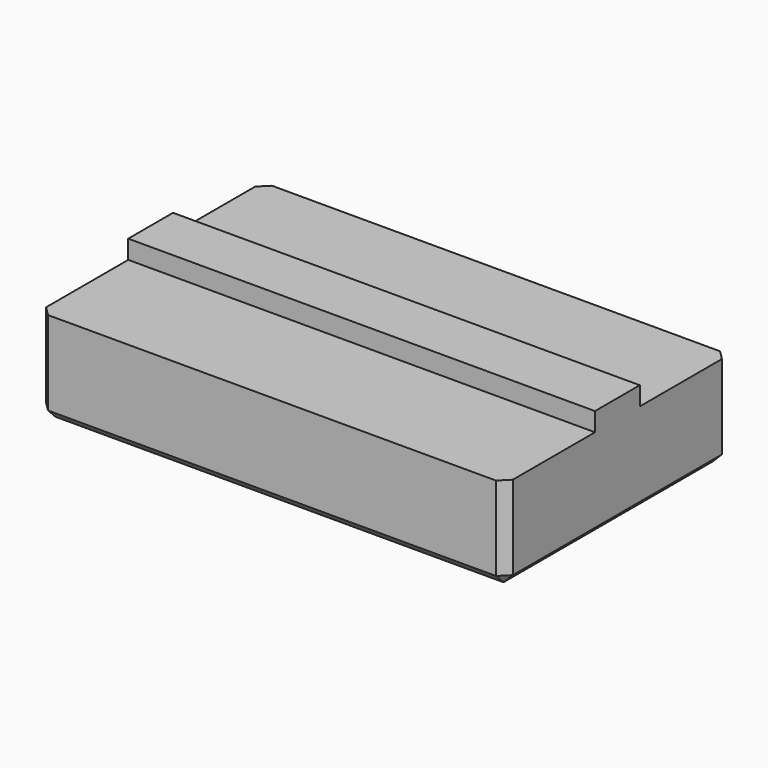
from build123d import *

# Parameters (mm, degrees)
BOX_W        = 50
BOX_H        = 30
BOX_DEPTH    = 10
BOX001_W     = 50
BOX001_H     = 6
BOX001_DEPTH = 12
CHAMFER_SIZE = 1


with BuildPart() as cube:
    # Box → Box (new body)
    with BuildSketch(Plane.XY):
        with Locations((25, 15)):
            Rectangle(BOX_W, BOX_H)
    extrude(amount=BOX_DEPTH)


with BuildPart() as f_50_spacer:
    # Box001 → Box001 (new body)
    with BuildSketch(Plane(origin=(0, 12, 0), x_dir=(1, 0, 0), z_dir=(0, 0, 1))):
        with Locations((25, 3)):
            Rectangle(BOX001_W, BOX001_H)
    extrude(amount=BOX001_DEPTH)

    # Fusion: union Cube
    add(cube.part)

    # Chamfer
    chamfer_edges = [f_50_spacer.edges().sort_by_distance(p)[0] for p in [
        (0, 15, 0),
        (0, 6, 0),
        (0, 0, 5),
        (0, 30, 5),
        (0, 24, 0),
        (50, 15, 0),
        (50, 6, 0),
        (25, 0, 0),
        (50, 0, 5),
        (25, 30, 0),
        (50, 30, 5),
        (50, 24, 0),
    ]]
    chamfer(chamfer_edges, length=CHAMFER_SIZE)


solid = f_50_spacer.part
